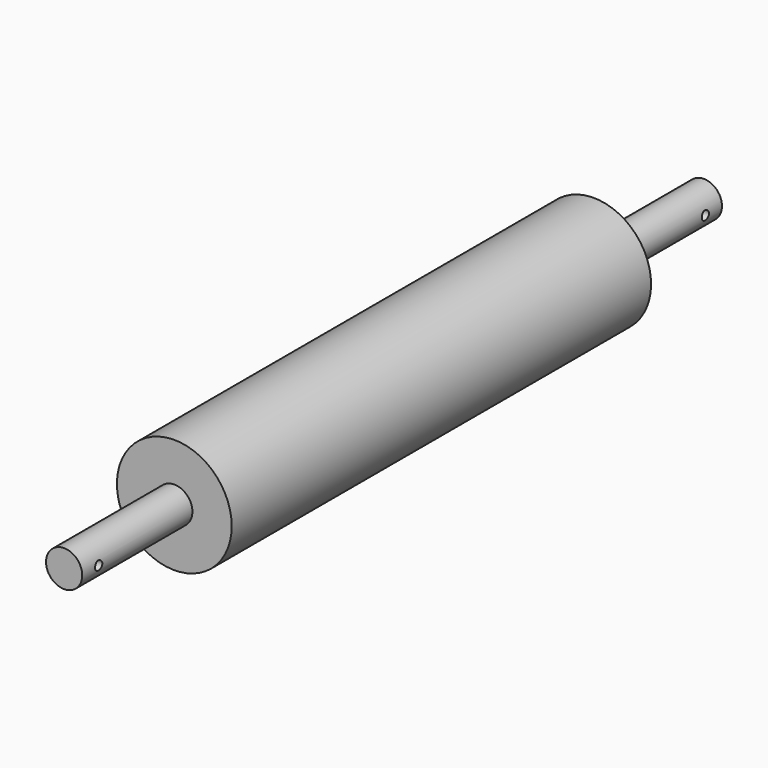
from build123d import *

# Parameters (mm, degrees)
F0_R     = 31.75
F0_R_2   = 10
F1_DEPTH = 290
F2_DEPTH = 76.2
F3_R     = 10
F4_DEPTH = 76.2
F5_R     = 2.5
F5_R_2   = 2.5019
F6_DEPTH = 63.5


with BuildPart() as f1:
    # F0 (on Front) → F1 (new body)
    with BuildSketch(Plane.XZ):
        Circle(F0_R)
        Circle(F0_R_2, mode=Mode.SUBTRACT)
        Circle(F0_R_2)
    extrude(amount=-F1_DEPTH)

    # F0 (on Front) → F2 (join)
    with BuildSketch(Plane.XZ):
        Circle(F0_R_2)
    extrude(amount=F2_DEPTH)

    # F3 (on face) → F4 (join)
    with BuildSketch(Plane(origin=(0, 290, 0), x_dir=(-1, 0, 0), z_dir=(0, 1, 0))):
        Circle(F3_R)
    extrude(amount=F4_DEPTH)

    # F5 (on Right) → F6 (cut, symmetric)
    with BuildSketch(Plane.YZ):
        with Locations((-64.77, 0)):
            Circle(F5_R)
        with Locations((354.77, 0)):
            Circle(F5_R_2)
    extrude(amount=F6_DEPTH, both=True, mode=Mode.SUBTRACT)


solid = f1.part
